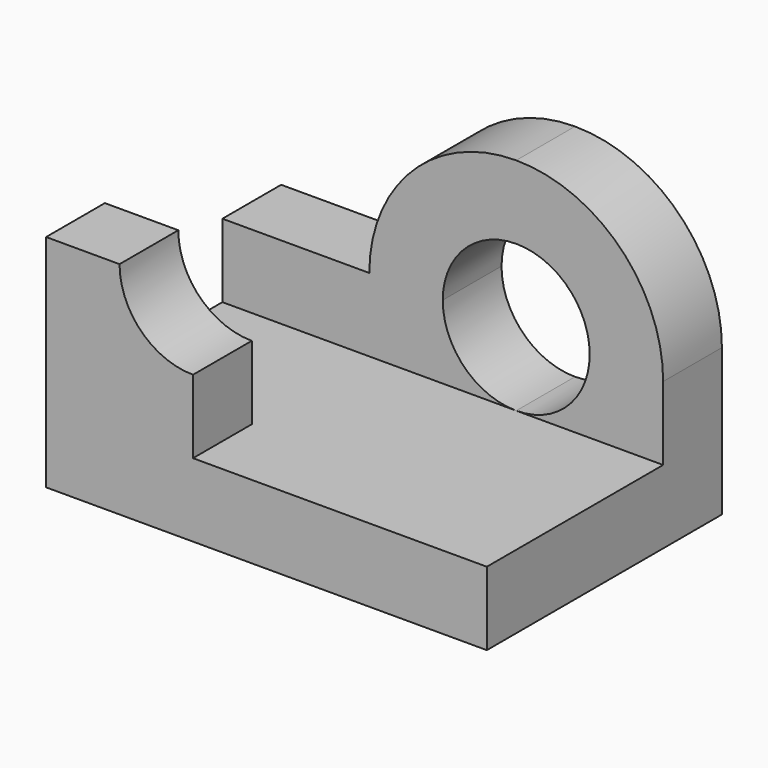
from build123d import *

# Parameters (mm, degrees)
F0_W      = 60
F0_H      = 40
F1_DEPTH  = 40
F2_W      = 20
F2_H      = 10
F3_DEPTH  = 10
F4_DEPTH  = 30
F5_W      = 60
F5_H      = 10
F6_DEPTH  = 10
F7_W      = 40
F7_H      = 20
F8_DEPTH  = 10
F10_DEPTH = 10
F11_W     = 20
F11_H     = 10
F12_DEPTH = 10
F14_DEPTH = 10


with BuildPart() as f1:
    # F0 (on Top) → F1 (new body)
    with BuildSketch(Plane.XY):
        with Locations((30, 20)):
            Rectangle(F0_W, F0_H)
    extrude(amount=F1_DEPTH)

    # F2 (on face) → F3 (cut)
    with BuildSketch(Plane.XY.offset(40)):
        with Locations((10, 35)):
            Rectangle(F2_W, F2_H)
    extrude(amount=-F3_DEPTH, mode=Mode.SUBTRACT)

    # F2 (on face) → F4 (cut)
    with BuildSketch(Plane.XY.offset(40)):
        Polygon((20, 30), (0, 30), (0, 10), (60, 10), (60, 30), align=None)
    extrude(amount=-F4_DEPTH, mode=Mode.SUBTRACT)

    # F5 (on face) → F6 (cut)
    with BuildSketch(Plane.XZ):
        with Locations((30, 35)):
            Rectangle(F5_W, F5_H)
    extrude(amount=-F6_DEPTH, mode=Mode.SUBTRACT)

    # F7 (on face) → F8 (cut)
    with BuildSketch(Plane.XZ):
        with Locations((40, 20)):
            Rectangle(F7_W, F7_H)
    extrude(amount=-F8_DEPTH, mode=Mode.SUBTRACT)

    # F9 (on face) → F10 (cut)
    with BuildSketch(Plane.XZ):
        with BuildLine():
            ThreePointArc((10, 30), (12.9289321881, 22.9289321881), (20, 20))
            Line((20, 20), (20, 30))
            Line((20, 30), (10, 30))
        make_face()
    extrude(amount=-F10_DEPTH, mode=Mode.SUBTRACT)

    # F11 (on face) → F12 (cut)
    with BuildSketch(Plane(origin=(0, 40, 0), x_dir=(-1, 0, 0), z_dir=(0, 1, 0))):
        with Locations((-10, 25)):
            Rectangle(F11_W, F11_H)
    extrude(amount=-F12_DEPTH, mode=Mode.SUBTRACT)

    # F13 (on face) → F14 (cut)
    with BuildSketch(Plane.XZ.offset(-30)):
        with BuildLine():
            Line((40, 20), (50, 20))
            ThreePointArc((50, 20), (40, 30), (30, 20))
            Line((30, 20), (40, 20))
        make_face()
        with BuildLine():
            ThreePointArc((30, 20), (32.9289321881, 12.9289321881), (40, 10))
            ThreePointArc((40, 10), (47.0710678119, 12.9289321881), (50, 20))
            Line((50, 20), (40, 20))
            Line((40, 20), (30, 20))
        make_face()
        with BuildLine():
            ThreePointArc((40, 40), (54.1421356237, 34.1421356237), (60, 20))
            Line((60, 20), (60, 40))
            Line((60, 40), (40, 40))
        make_face()
        with BuildLine():
            ThreePointArc((20, 20), (25.8578643763, 34.1421356237), (40, 40))
            Line((40, 40), (20, 40))
            Line((20, 40), (20, 20))
        make_face()
    extrude(amount=-F14_DEPTH, mode=Mode.SUBTRACT)


solid = f1.part
